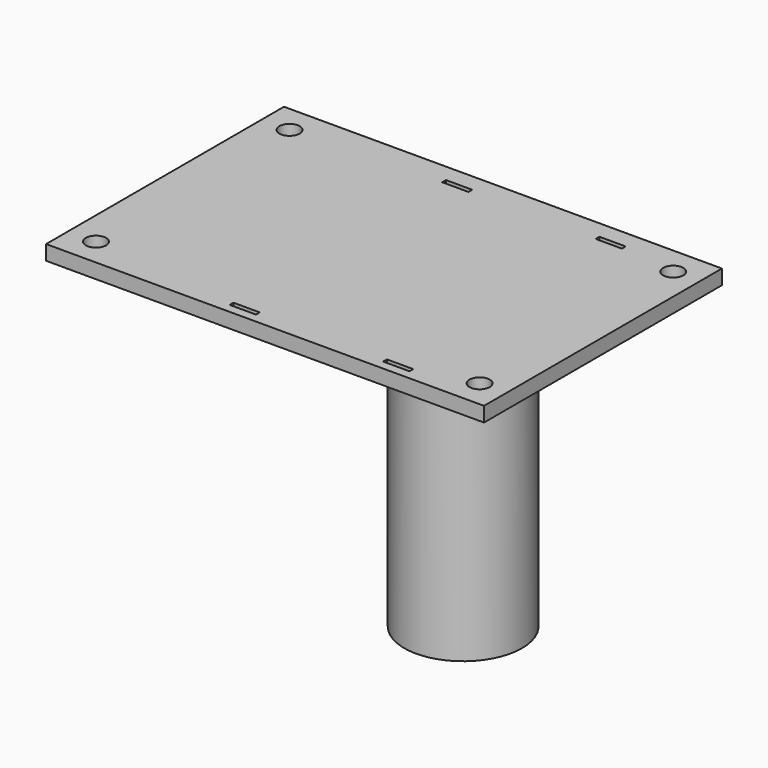
from build123d import *

# Parameters (mm, degrees)
F0_W      = 99.28
F0_H      = 99.28
F1_DEPTH  = 5
F2_R      = 9.975
F3_DEPTH  = 50.12
F4_R      = 6.97414
F5_DEPTH  = 45
F6_W      = 10.15
F6_H      = 33.35
F7_DEPTH  = 51.54
F8_W      = 19.84
F8_H      = 17.26
F9_DEPTH  = 30.101
F10_R     = 1.715
F11_DEPTH = 30.101
F12_W     = 99.28
F12_H     = 26.759172
F13_DEPTH = 55.121
F14_W     = 25.082288
F14_H     = 72.520828
F15_DEPTH = 55.121
F16_W     = 74.197712
F16_H     = 22.137212
F17_DEPTH = 55.121
F18_R     = 1.715
F19_DEPTH = 30.101
F20_W     = 4.45
F20_H     = 0.8
F21_DEPTH = 55.121
F22_R     = 1.72
F23_DEPTH = 55.121
F24_W     = 52.245434
F24_H     = 58.427127
F25_DEPTH = 74.198713


with BuildPart() as f1:
    # F0 (on Top) → F1 (new body)
    with BuildSketch(Plane.XY):
        with Locations((1.248532, -12.53785)):
            Rectangle(F0_W, F0_H)
    extrude(amount=F1_DEPTH)

    # F2 (on face) → F3 (join)
    with BuildSketch(Plane(origin=(0, 0, 0), x_dir=(1, 0, 0), z_dir=(0, 0, -1))):
        with Locations((0, 12.20285)):
            Circle(F2_R)
    extrude(amount=F3_DEPTH)

    # F4 (on face) → F5 (cut)
    with BuildSketch(Plane(origin=(0, 0, -50.12), x_dir=(1, 0, 0), z_dir=(0, 0, -1))):
        with Locations((0, 12.20285)):
            Circle(F4_R)
    extrude(amount=-F5_DEPTH, mode=Mode.SUBTRACT)

    # F6 (on face) → F7 (join)
    with BuildSketch(Plane.XY.offset(5)):
        with Locations((-23.366468, -12.46285)):
            Rectangle(F6_W, F6_H)
    extrude(amount=F7_DEPTH)

    # F8 (on face) → F9 (cut, through all)
    with BuildSketch(Plane.YZ.offset(-18.291468)):
        with Locations((-12.51785, 47.91)):
            Rectangle(F8_W, F8_H)
    extrude(amount=-F9_DEPTH, mode=Mode.SUBTRACT)

    # F10 (on face) → F11 (cut, through all)
    with BuildSketch(Plane.YZ.offset(-18.291468)):
        with Locations((-25.66285, 52.125)):
            Circle(F10_R)
        with Locations((-25.66285, 47.205)):
            Circle(F10_R)
    extrude(amount=-F11_DEPTH, mode=Mode.SUBTRACT)

    # F12 (on face) → F13 (cut, through all)
    with BuildSketch(Plane.XY.offset(5)):
        with Locations((1.248532, 23.722564)):
            Rectangle(F12_W, F12_H)
    extrude(amount=-F13_DEPTH, mode=Mode.SUBTRACT)

    # F14 (on face) → F15 (cut, through all)
    with BuildSketch(Plane.XY.offset(5)):
        with Locations((38.347388, -25.917436)):
            Rectangle(F14_W, F14_H)
    extrude(amount=-F15_DEPTH, mode=Mode.SUBTRACT)

    # F16 (on face) → F17 (cut, through all)
    with BuildSketch(Plane.XY.offset(5)):
        with Locations((-11.292612, -51.109244)):
            Rectangle(F16_W, F16_H)
    extrude(amount=-F17_DEPTH, mode=Mode.SUBTRACT)

    # F18 (on face) → F19 (cut, through all)
    with BuildSketch(Plane.YZ.offset(-18.291468)):
        with Locations((0.73715, 52.125)):
            Circle(F18_R)
        with Locations((0.73715, 47.205)):
            Circle(F18_R)
    extrude(amount=-F19_DEPTH, mode=Mode.SUBTRACT)

    # F20 (on face) → F21 (cut, through all)
    with BuildSketch(Plane.XY.offset(5)):
        with Locations((-16.306812, -38.074275)):
            Rectangle(F20_W, F20_H)
        with Locations((-16.306812, 6.925725)):
            Rectangle(F20_W, F20_H)
        with Locations((9.693188, -38.074275)):
            Rectangle(F20_W, F20_H)
        with Locations((9.693188, 6.925725)):
            Rectangle(F20_W, F20_H)
    extrude(amount=-F21_DEPTH, mode=Mode.SUBTRACT)

    # F22 (on face) → F23 (cut, through all)
    with BuildSketch(Plane.XY.offset(5)):
        with Locations((-43.671468, 5.622978)):
            Circle(F22_R)
        with Locations((-43.671468, -35.377022)):
            Circle(F22_R)
        with Locations((21.328532, 5.622978)):
            Circle(F22_R)
        with Locations((21.328532, -35.377022)):
            Circle(F22_R)
    extrude(amount=-F23_DEPTH, mode=Mode.SUBTRACT)

    # F24 (on face) → F25 (cut, through all)
    with BuildSketch(Plane.YZ.offset(25.806244)):
        with Locations((-13.917921, 31.713563)):
            Rectangle(F24_W, F24_H)
    extrude(amount=-F25_DEPTH, mode=Mode.SUBTRACT)


solid = f1.part
